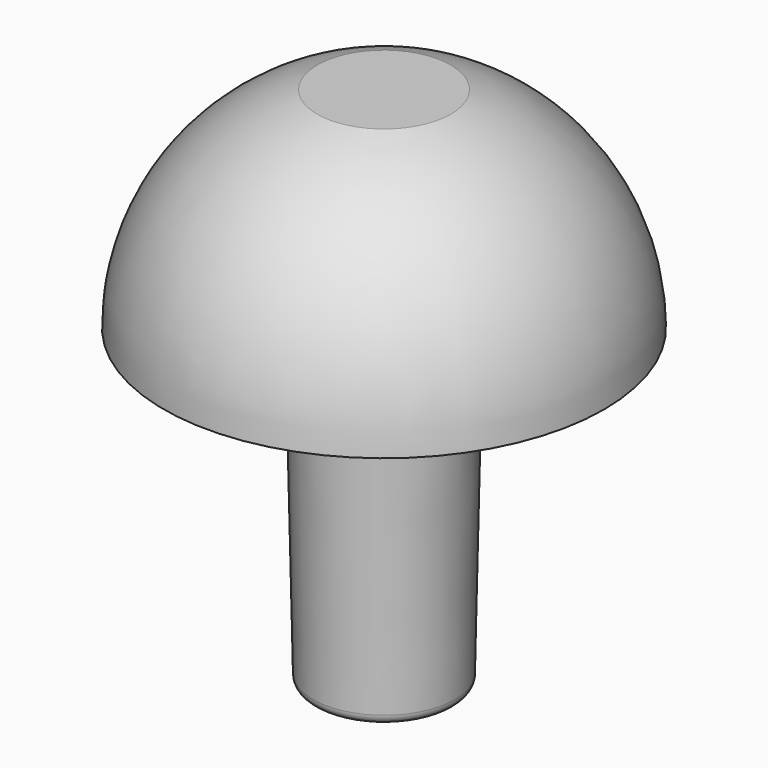
from build123d import *


with BuildPart() as f1:
    # F0 (on Front) → F1 (revolve)
    with BuildSketch(Plane.XZ):
        with BuildLine():
            Line((5.7, 0), (6.6, 0))
            ThreePointArc((6.6, 0), (5.327288, 3.896152), (2, 6.289674))
            Line((2, 6.289674), (0, 6.289674))
            Line((0, 6.289674), (0, 5.7))
            ThreePointArc((0, 5.7), (1.24346, 5.569404), (2.428013, 5.169303))
            ThreePointArc((2.428013, 5.169303), (3.057709, 4.825608), (3.638935, 4.405108))
            ThreePointArc((3.638935, 4.405108), (5.166081, 2.43491), (5.7, 0))
        make_face()
        with BuildLine():
            Line((2.320917, 0.019948), (5.7, 0))
            ThreePointArc((5.7, 0), (5.166081, 2.43491), (3.638935, 4.405108))
            ThreePointArc((3.638935, 4.405108), (2.841494, 4.509148), (2.400299, 3.836778))
            Line((2.400299, 3.836778), (2.320917, 0.019948))
        make_face()
        with BuildLine():
            Line((2.13111, -9.106238), (2.320917, 0.019948))
            Line((2.320917, 0.019948), (2.400299, 3.836778))
            Line((2.400299, 3.836778), (2.428013, 5.169303))
            ThreePointArc((2.428013, 5.169303), (1.24346, 5.569404), (0, 5.7))
            Line((0, 5.7), (0, -9.4))
            Line((0, -9.4), (1.831175, -9.4))
            ThreePointArc((1.831175, -9.4), (2.041089, -9.314326), (2.13111, -9.106238))
        make_face()
    revolve(axis=Axis((0, 0, 5.994837), (0, 0, -1)))


solid = f1.part
